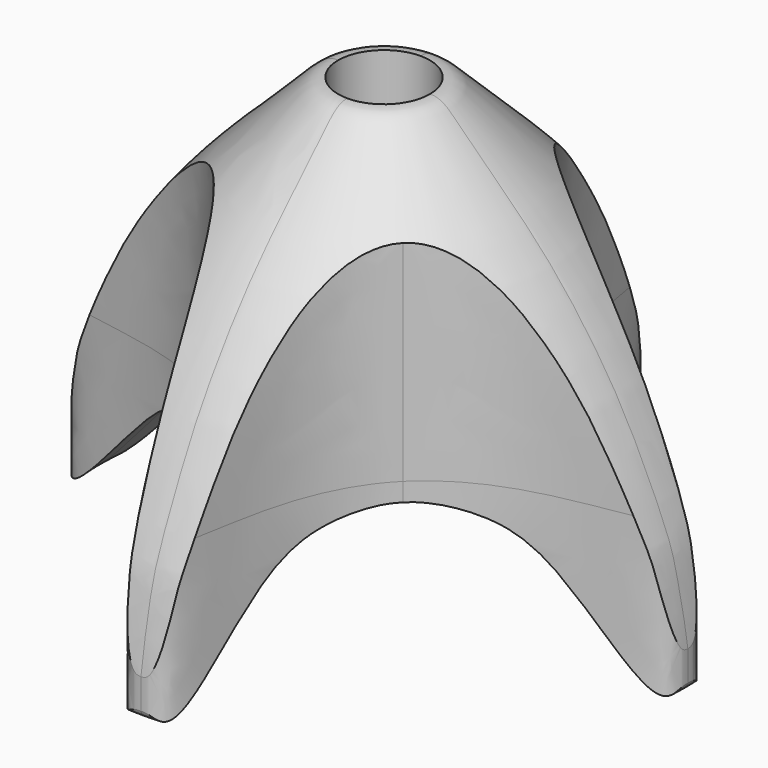
from build123d import *

# Parameters (mm, degrees)
F3_DEPTH = 33.2
F4_COUNT = 4
F5_DEPTH = 36.9
F6_COUNT = 4


with BuildPart() as f1:
    # F0 (on Front) → F1 (revolve)
    with BuildSketch(Plane.XZ):
        with BuildLine():
            add(Edge.make_bspline(
                [(5, 31.1950477505), (6.3794907728, 31.2686075605), (8.6777704831, 28.5663825465), (17.1164157916, 20.8827045201), (22.8918030168, 13.0423724963), (26.5228587453, 7.2118634708), (31.1233170645, -2.675496162), (31.9893846332, -6.3387026908), (35.3615727221, -23.410203081), (21.9002198602, -4.6468771913), (15.4585504549, -2.583918075), (10.4974745098, 0.054332939), (5, 0)],
                knots=[0, 0, 0, 0, 0.0689363266, 0.1836577851, 0.2889321326, 0.3792351716, 0.4859346561, 0.5636027161, 0.6667087587, 0.796569474, 0.8890600727, 1, 1, 1, 1], degree=3))
            Line((5, 31.1950477505), (5, 0))
        make_face()
    revolve(axis=Axis((0, 0, 7.7754664235), (0, 0, 1)))

    # F2 (on Top) → F3 (intersect, symmetric)
    with BuildSketch(Plane.XY):
        with BuildLine():
            Line((0, 33.1256724894), (0, 0))
            Line((0, 0), (33.1256724894, 0))
            add(Edge.make_bspline(
                [(33.1256724894, 0), (33.1256724894, 0.7449685703), (32.9942293431, 4.4029058666), (17.5378960664, 3.2313725535), (10.3846343099, 10.3846343099)],
                knots=[0, 0, 0, 0, 0.2454206656, 1, 1, 1, 1], degree=3))
            add(Edge.make_bspline(
                [(0, 33.1256724894), (0.7449685703, 33.1256724894), (4.4029058666, 32.9942293431), (3.2313725535, 17.5378960664), (10.3846343099, 10.3846343099)],
                knots=[0, 0, 0, 0, 0.2454206656, 1, 1, 1, 1], degree=3))
        make_face()
    extrude(amount=F3_DEPTH, both=True, mode=Mode.INTERSECT)

    # F4: F1 ×4 about axis
    f4_axis = Axis((0, 0, 7.7754664235), (0, 0, 1))


with BuildPart() as f1_1:
    add(f1.part)
    for i in range(1, F4_COUNT):
        add(f1.part.rotate(f4_axis, i * 360 / F4_COUNT))

    # F2 (on Top) → F5 (intersect, symmetric)
    with BuildSketch(Plane.XY):
        with BuildLine():
            Line((0, 33.1256724894), (0, 0))
            Line((0, 0), (33.1256724894, 0))
            add(Edge.make_bspline(
                [(33.1256724894, 0), (33.1256724894, 0.7449685703), (32.9942293431, 4.4029058666), (17.5378960664, 3.2313725535), (10.3846343099, 10.3846343099)],
                knots=[0, 0, 0, 0, 0.2454206656, 1, 1, 1, 1], degree=3))
            add(Edge.make_bspline(
                [(0, 33.1256724894), (0.7449685703, 33.1256724894), (4.4029058666, 32.9942293431), (3.2313725535, 17.5378960664), (10.3846343099, 10.3846343099)],
                knots=[0, 0, 0, 0, 0.2454206656, 1, 1, 1, 1], degree=3))
        make_face()
    extrude(amount=F5_DEPTH, both=True, mode=Mode.INTERSECT)

    # F6: F1 ×4 about axis
    f6_axis = Axis((0, 0, 7.7754664235), (0, 0, 1))


with BuildPart() as f1_2:
    add(f1_1.part)
    for i in range(1, F6_COUNT):
        add(f1_1.part.rotate(f6_axis, i * 360 / F6_COUNT))


solid = f1_2.part
